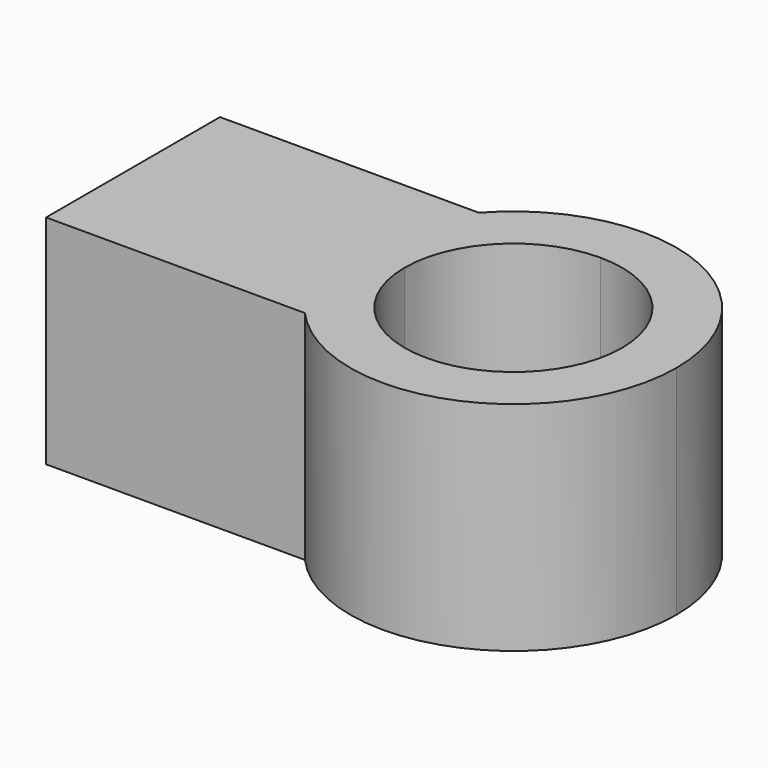
from build123d import *

# Parameters (mm, degrees)
F1_DEPTH = 25.4


with BuildPart() as f1:
    # F0 (on Top) → F1 (new body)
    with BuildSketch(Plane.XY):
        with BuildLine():
            ThreePointArc((6.35, 10.9985226281), (10.9985226281, 6.35), (12.7, 0))
            ThreePointArc((12.7, 0), (10.9985226281, -6.35), (6.35, -10.9985226281))
            Line((6.35, -10.9985226281), (6.35, -12.7))
            Line((6.35, -12.7), (-4.93e-08, -12.7))
            Line((-4.93e-08, -12.7), (-14.1990316571, -12.7))
            ThreePointArc((-14.1990316571, -12.7), (6.7974608102, -17.7959834382), (19.05, 0))
            ThreePointArc((19.05, 0), (6.7974608102, 17.7959834382), (-14.1990316571, 12.7))
            Line((-14.1990316571, 12.7), (6.56e-08, 12.7))
            Line((6.56e-08, 12.7), (6.35, 12.7))
            Line((6.35, 12.7), (6.35, 10.9985226281))
        make_face()
        with BuildLine():
            ThreePointArc((6.56e-08, 12.7), (3.2870019045, 12.2672579854), (6.35, 10.9985226281))
            Line((6.35, 10.9985226281), (6.35, 12.7))
            Line((6.35, 12.7), (6.56e-08, 12.7))
        make_face()
        with BuildLine():
            Line((6.35, -12.7), (6.35, -10.9985226281))
            ThreePointArc((6.35, -10.9985226281), (3.287001849, -12.2672580003), (-4.93e-08, -12.7))
            Line((-4.93e-08, -12.7), (6.35, -12.7))
        make_face()
        with BuildLine():
            ThreePointArc((-12.7, 0), (-8.9802560979, 8.9802561443), (6.56e-08, 12.7))
            Line((6.56e-08, 12.7), (-14.1990316571, 12.7))
            ThreePointArc((-14.1990316571, 12.7), (-17.7959834382, 6.7974608102), (-19.05, 0))
            Line((-19.05, 0), (-12.7, 0))
        make_face()
        with BuildLine():
            ThreePointArc((-19.05, 0), (-17.7959834382, 6.7974608102), (-14.1990316571, 12.7))
            Line((-14.1990316571, 12.7), (-44.45, 12.7))
            Line((-44.45, 12.7), (-44.45, -12.7))
            Line((-44.45, -12.7), (-14.1990316571, -12.7))
            ThreePointArc((-14.1990316571, -12.7), (-17.7959834382, -6.7974608102), (-19.05, 0))
        make_face()
        with BuildLine():
            Line((-14.1990316571, -12.7), (-4.93e-08, -12.7))
            ThreePointArc((-4.93e-08, -12.7), (-8.9802561385, -8.9802561036), (-12.7, 0))
            Line((-12.7, 0), (-19.05, 0))
            ThreePointArc((-19.05, 0), (-17.7959834382, -6.7974608102), (-14.1990316571, -12.7))
        make_face()
    extrude(amount=F1_DEPTH)


solid = f1.part
